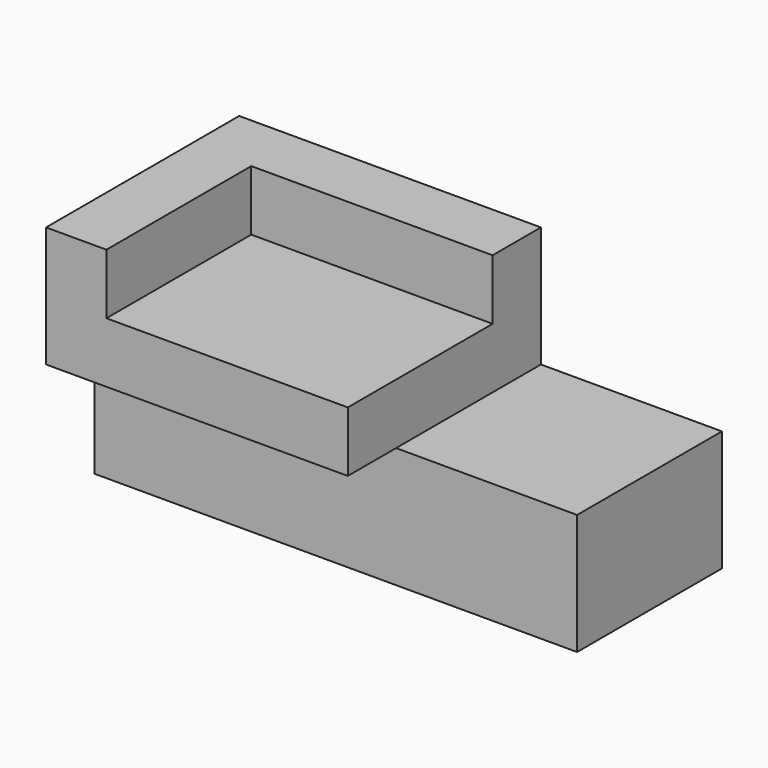
from build123d import *

# Parameters (mm, degrees)
F0_W     = 203.2
F0_H     = 50.8
F1_DEPTH = 76.2
F2_W     = 127
F2_H     = 50.8
F3_DEPTH = 101.6
F4_W     = 101.6
F4_H     = 25.4
F5_DEPTH = 76.2


with BuildPart() as f1:
    # F0 (on Front) → F1 (new body)
    with BuildSketch(Plane.XZ):
        with Locations((-62.596995, -44.31985)):
            Rectangle(F0_W, F0_H)
    extrude(amount=F1_DEPTH)

    # F2 (on Front) → F3 (join)
    with BuildSketch(Plane.XZ):
        with Locations((-100.696995, 6.48015)):
            Rectangle(F2_W, F2_H)
    extrude(amount=F3_DEPTH)

    # F4 (on face) → F5 (cut)
    with BuildSketch(Plane.XZ.offset(101.6)):
        with Locations((-87.996995, 19.18015)):
            Rectangle(F4_W, F4_H)
    extrude(amount=-F5_DEPTH, mode=Mode.SUBTRACT)


solid = f1.part
